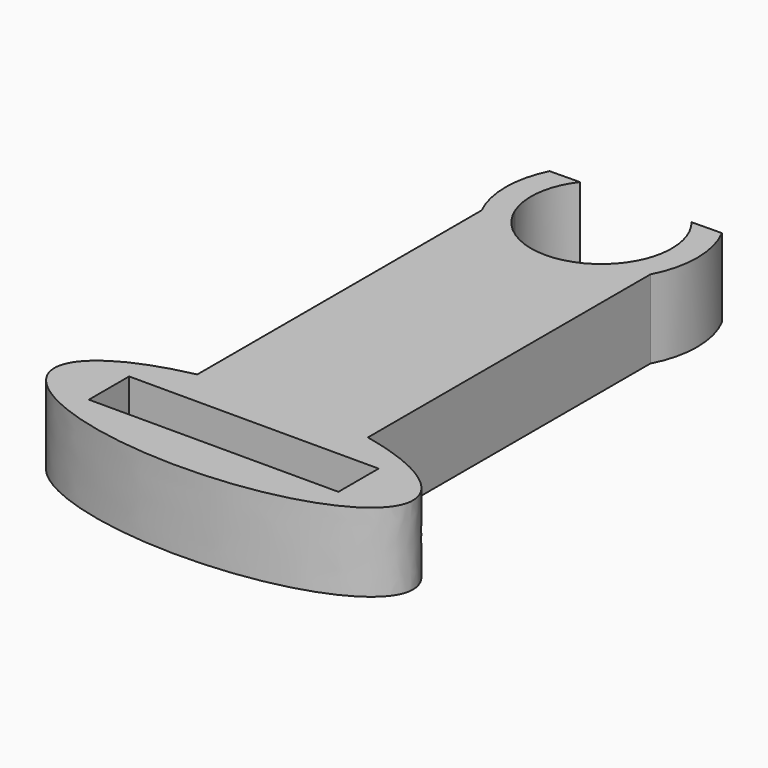
from build123d import *

# Parameters (mm, degrees)
F1_DEPTH = 9.525


with BuildPart() as f1:
    # F0 (on Top) → F1 (new body)
    with BuildSketch(Plane.XY):
        with BuildLine():
            Line((-10.3461202234, 24.3209898999), (-10.3461202234, 26.3036996831))
            Line((-10.3461202234, 26.3036996831), (-7.8581247098, 26.3036996831))
            ThreePointArc((-7.8581247098, 26.3036996831), (-8.3877276665, 30.6417373898), (-6.7015996266, 34.6736132149))
            Line((-6.7015996266, 34.6736132149), (-10.3461202234, 34.6250198781))
            ThreePointArc((-10.3461202234, 34.6250198781), (-11.5505652345, 29.473004889), (-10.3461202234, 24.3209898999))
        make_face()
        with BuildLine():
            Line((-7.8581247098, 26.3036996831), (-10.3461202234, 26.3036996831))
            Line((-10.3461202234, 26.3036996831), (-10.3461202234, 24.3209898999))
            ThreePointArc((-10.3461202234, 24.3209898999), (-0.0844008936, 17.8529400522), (10.3461202234, 24.0450949004))
            Line((10.3461202234, 24.0450949004), (10.3461202234, 26.3036996831))
            Line((10.3461202234, 26.3036996831), (7.9991895889, 26.3036996831))
            ThreePointArc((7.9991895889, 26.3036996831), (0.0705324395, 20.9343808968), (-7.8581247098, 26.3036996831))
        make_face()
        with BuildLine():
            ThreePointArc((8.6091564318, 29.473004889), (8.4552781674, 27.8592704749), (7.9991895889, 26.3036996831))
            Line((7.9991895889, 26.3036996831), (10.3461202234, 26.3036996831))
            Line((10.3461202234, 26.3036996831), (10.3461202234, 24.0450949004))
            ThreePointArc((10.3461202234, 24.0450949004), (11.6916301135, 29.473004889), (10.3461202234, 34.9009148777))
            Line((10.3461202234, 34.9009148777), (6.7015996266, 34.8523215409))
            ThreePointArc((6.7015996266, 34.8523215409), (8.1181497595, 32.3267664683), (8.6091564318, 29.473004889))
        make_face()
        with BuildLine():
            ThreePointArc((10.3461202234, 24.0450949004), (-0.0844008936, 17.8529400522), (-10.3461202234, 24.3209898999))
            Line((-10.3461202234, 24.3209898999), (-10.3461202234, -18.8006617123))
            add(Edge.make_bspline(
                [(10.3461202234, -18.8006617123), (0, -16.6360758959), (-10.3461202234, -18.8006617123)],
                knots=[4.2166858118, 4.2166858118, 4.2166858118, 5.208092149, 5.208092149, 5.208092149], degree=2, weights=[1, 0.879634465, 1]))
            Line((10.3461202234, -18.8006617123), (10.3461202234, 24.0450949004))
        make_face()
        with BuildLine():
            Line((-10.3461202234, -23.1507476419), (-10.3461202234, -18.8006617123))
            add(Edge.make_bspline(
                [(-10.3461202234, -18.8006617123), (-21.7515267432, -21.1868683916), (-21.7515267432, -26.2035932392)],
                knots=[5.208092149, 5.208092149, 5.208092149, 6.2831853072, 6.2831853072, 6.2831853072], degree=2, weights=[1, 0.8589674907, 1]))
            add(Edge.make_bspline(
                [(-21.7515267432, -26.2035932392), (-21.7515267432, -41.0180323085), (11.1374369792, -33.4325932051), (44.0264007016, -25.8471541017), (10.3461202234, -18.8006617123)],
                knots=[0, 0, 0, 2.1083429059, 2.1083429059, 4.2166858118, 4.2166858118, 4.2166858118], degree=2, weights=[1, 0.4939483141, 1, 0.4939483141, 1]))
            Line((10.3461202234, -18.8006617123), (10.3461202234, -23.1507476419))
            Line((10.3461202234, -23.1507476419), (15.1370260864, -23.1507476419))
            Line((15.1370260864, -23.1507476419), (15.1370260864, -29.2564388365))
            Line((15.1370260864, -29.2564388365), (-15.1370260864, -29.2564388365))
            Line((-15.1370260864, -29.2564388365), (-15.1370260864, -23.1507476419))
            Line((-15.1370260864, -23.1507476419), (-10.3461202234, -23.1507476419))
        make_face()
        with BuildLine():
            add(Edge.make_bspline(
                [(10.3461202234, -18.8006617123), (0, -16.6360758959), (-10.3461202234, -18.8006617123)],
                knots=[4.2166858118, 4.2166858118, 4.2166858118, 5.208092149, 5.208092149, 5.208092149], degree=2, weights=[1, 0.879634465, 1]))
            Line((-10.3461202234, -18.8006617123), (-10.3461202234, -23.1507476419))
            Line((-10.3461202234, -23.1507476419), (10.3461202234, -23.1507476419))
            Line((10.3461202234, -23.1507476419), (10.3461202234, -18.8006617123))
        make_face()
    extrude(amount=F1_DEPTH)


solid = f1.part
